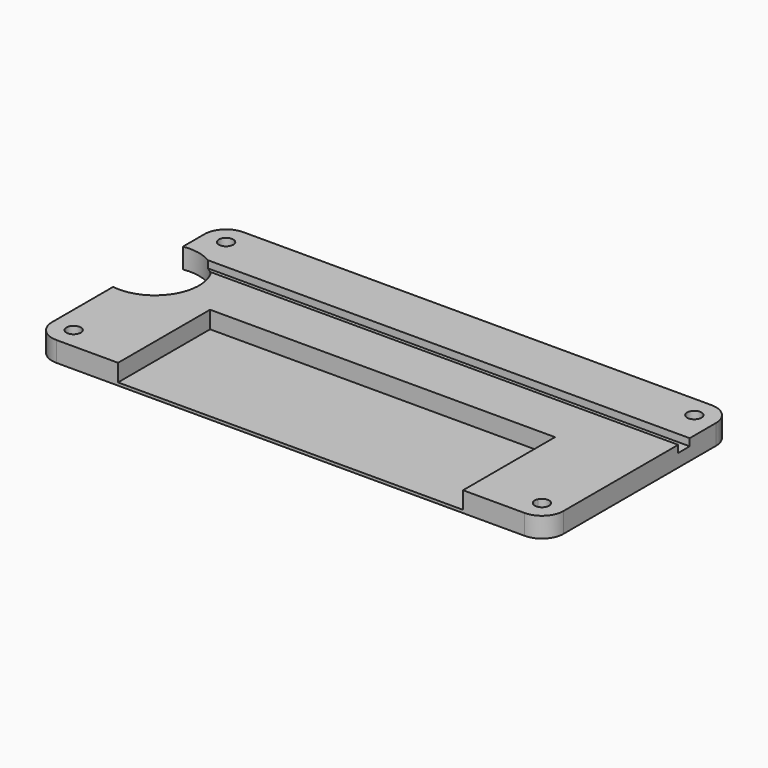
from build123d import *

# Parameters (mm, degrees)
F1_DEPTH = 2.8
F2_W     = 48
F2_H     = 2
F2_H_2   = 16
F3_DEPTH = 2.4
F4_DEPTH = 1


with BuildPart() as f1:
    # F0 (on Top) → F1 (new body)
    with BuildSketch(Plane.XY):
        with BuildLine():
            ThreePointArc((34.8248369992, 13.6349746287), (33.9461573427, 15.7562949722), (31.8248369992, 16.6349746287))
            Line((31.8248369992, 16.6349746287), (-33.3311557472, 16.6349746287))
            ThreePointArc((-33.3311557472, 16.6349746287), (-35.4524760907, 15.7562949722), (-36.3311557472, 13.6349746287))
            Line((-36.3311557472, 13.6349746287), (-36.3311557472, 9.882260114))
            ThreePointArc((-36.3311557472, 9.882260114), (-29.2342316353, 3.8106893189), (-36.3311557472, -2.2608814761))
            Line((-36.3311557472, -2.2608814761), (-36.3311557472, -12.8735043705))
            ThreePointArc((-36.3311557472, -12.8735043705), (-35.4524760907, -14.994824714), (-33.3311557472, -15.8735043705))
            Line((-33.3311557472, -15.8735043705), (31.8248369992, -15.8735043705))
            ThreePointArc((31.8248369992, -15.8735043705), (33.9461573427, -14.994824714), (34.8248369992, -12.8735043705))
            Line((34.8248369992, -12.8735043705), (34.8248369992, 13.6349746287))
        make_face()
        with BuildLine():
            ThreePointArc((-32.3311557472, -12.8735043705), (-34.3042365532, -13.1039685651), (-32.4373832372, -12.4249838019))
            ThreePointArc((-32.4373832372, -12.4249838019), (-32.3580749412, -12.6430401758), (-32.3311557472, -12.8735043705))
        make_face(mode=Mode.SUBTRACT)
        with BuildLine():
            ThreePointArc((32.8248369992, -12.8735043705), (31.5943728046, -13.8465851764), (30.9310644892, -12.4249838019))
            ThreePointArc((30.9310644892, -12.4249838019), (32.0553011938, -11.9004235645), (32.8248369992, -12.8735043705))
        make_face(mode=Mode.SUBTRACT)
        with BuildLine():
            ThreePointArc((-32.3311557472, 13.6349746287), (-32.3580749412, 13.4045104341), (-32.4373832372, 13.1864540602))
            ThreePointArc((-32.4373832372, 13.1864540602), (-34.3042365532, 13.8654388233), (-32.3311557472, 13.6349746287))
        make_face(mode=Mode.SUBTRACT)
        with BuildLine():
            ThreePointArc((32.8248369992, 13.6349746287), (32.0553011938, 12.6618938227), (30.9310644892, 13.1864540602))
            ThreePointArc((30.9310644892, 13.1864540602), (31.5943728046, 14.6080554347), (32.8248369992, 13.6349746287))
        make_face(mode=Mode.SUBTRACT)
    extrude(amount=F1_DEPTH)

    # F2 (on face) → F3 (cut)
    with BuildSketch(Plane.XY.offset(2.8)):
        with Locations((-0.753159374, -16.8735043705)):
            Rectangle(F2_W, F2_H)
        with Locations((-0.753159374, -7.8735043705)):
            Rectangle(F2_W, F2_H_2)
    extrude(amount=-F3_DEPTH, mode=Mode.SUBTRACT)

    # F2 (on face) → F4 (cut)
    with BuildSketch(Plane.XY.offset(2.8)):
        with BuildLine():
            Line((-30.1732155819, 7.075597696), (34.8248369992, 7.075597696))
            Line((34.8248369992, 7.075597696), (34.8248369992, 9.075597696))
            Line((34.8248369992, 9.075597696), (-32.2097548914, 9.075597696))
            ThreePointArc((-32.2097548914, 9.075597696), (-31.0737619928, 8.1954717029), (-30.1732155819, 7.075597696))
        make_face()
    extrude(amount=-F4_DEPTH, mode=Mode.SUBTRACT)


solid = f1.part
